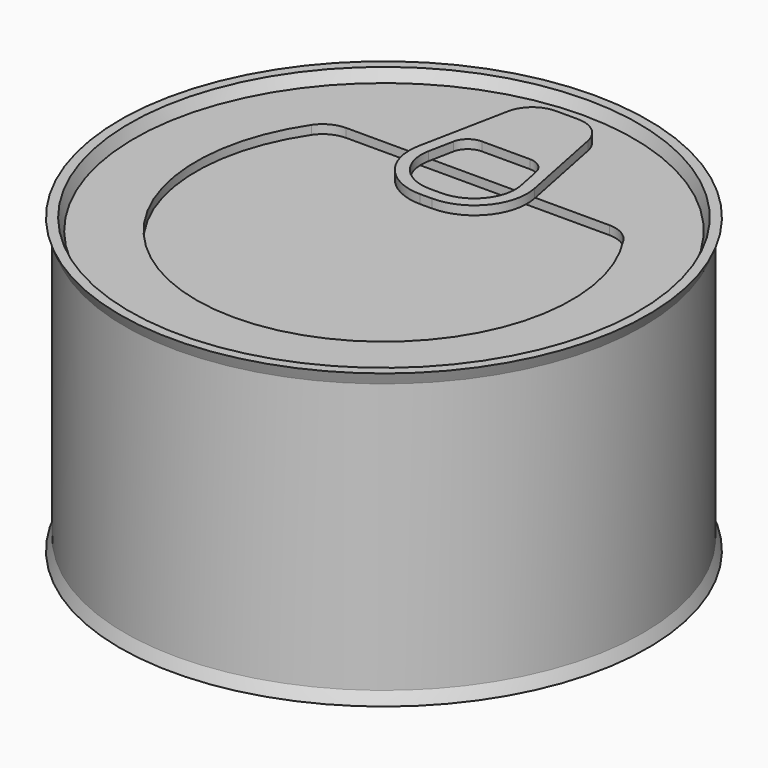
from build123d import *

# Parameters (mm, degrees)
F3_DEPTH = 1.5
F5_DEPTH = 1.5


with BuildPart() as f1:
    # F0 (on Right) → F1 (revolve)
    with BuildSketch(Plane.YZ):
        Polygon((0, 48), (0, 2), (42.57288, 2), (43.38192, 0), (45, 0), (44.19096, 2), (44.19096, 48), (45, 50), (43.38192, 50), (42.57288, 48), align=None)
    revolve(axis=Axis((0, 0, 25), (0, 0, 1)))

    # F2 (on face) → F3 (cut)
    with BuildSketch(Plane.XY.offset(48)):
        with BuildLine():
            ThreePointArc((-22.449944, 20), (-24.806967, 19.409586), (-26.607341, 17.777778))
            ThreePointArc((-26.607341, 17.777778), (0, -32), (26.607341, 17.777778))
            ThreePointArc((26.607341, 17.777778), (24.806967, 19.409586), (22.449944, 20))
            Line((22.449944, 20), (-22.449944, 20))
        make_face()
    extrude(amount=-F3_DEPTH, mode=Mode.SUBTRACT)

    # F4 (on face) → F5 (join)
    with BuildSketch(Plane.XY.offset(48)):
        with BuildLine():
            Line((1.90098, 39), (-1.90098, 39))
            ThreePointArc((-1.90098, 39), (-5.070925, 37.866711), (-6.803884, 34.980581))
            Line((-6.803884, 34.980581), (-9.846991, 19.765045))
            ThreePointArc((-9.846991, 19.765045), (-7.981844, 12.2941), (-1.021765, 9))
            Line((-1.021765, 9), (1.021765, 9))
            ThreePointArc((1.021765, 9), (7.981844, 12.2941), (9.846991, 19.765045))
            Line((9.846991, 19.765045), (6.803884, 34.980581))
            ThreePointArc((6.803884, 34.980581), (5.070925, 37.866711), (1.90098, 39))
        make_face()
        with BuildLine():
            ThreePointArc((7.88583, 19.372813), (6.43516, 13.562078), (1.021765, 11))
            Line((1.021765, 11), (-1.021765, 11))
            ThreePointArc((-1.021765, 11), (-6.43516, 13.562078), (-7.88583, 19.372813))
            Line((-7.88583, 19.372813), (-7.042723, 23.588348))
            ThreePointArc((-7.042723, 23.588348), (-6.002947, 25.320026), (-4.10098, 26))
            Line((-4.10098, 26), (4.10098, 26))
            ThreePointArc((4.10098, 26), (6.002947, 25.320026), (7.042723, 23.588348))
            Line((7.042723, 23.588348), (7.88583, 19.372813))
        make_face(mode=Mode.SUBTRACT)
        with BuildLine():
            Line((1.90098, 39), (-1.90098, 39))
            ThreePointArc((-1.90098, 39), (-5.070925, 37.866711), (-6.803884, 34.980581))
            Line((-6.803884, 34.980581), (-9.846991, 19.765045))
            ThreePointArc((-9.846991, 19.765045), (-7.981844, 12.2941), (-1.021765, 9))
            Line((-1.021765, 9), (1.021765, 9))
            ThreePointArc((1.021765, 9), (7.981844, 12.2941), (9.846991, 19.765045))
            Line((9.846991, 19.765045), (6.803884, 34.980581))
            ThreePointArc((6.803884, 34.980581), (5.070925, 37.866711), (1.90098, 39))
        make_face()
        with BuildLine():
            ThreePointArc((7.88583, 19.372813), (6.43516, 13.562078), (1.021765, 11))
            Line((1.021765, 11), (-1.021765, 11))
            ThreePointArc((-1.021765, 11), (-6.43516, 13.562078), (-7.88583, 19.372813))
            Line((-7.88583, 19.372813), (-7.042723, 23.588348))
            ThreePointArc((-7.042723, 23.588348), (-6.002947, 25.320026), (-4.10098, 26))
            Line((-4.10098, 26), (4.10098, 26))
            ThreePointArc((4.10098, 26), (6.002947, 25.320026), (7.042723, 23.588348))
            Line((7.042723, 23.588348), (7.88583, 19.372813))
        make_face(mode=Mode.SUBTRACT)
    extrude(amount=F5_DEPTH)


solid = f1.part
